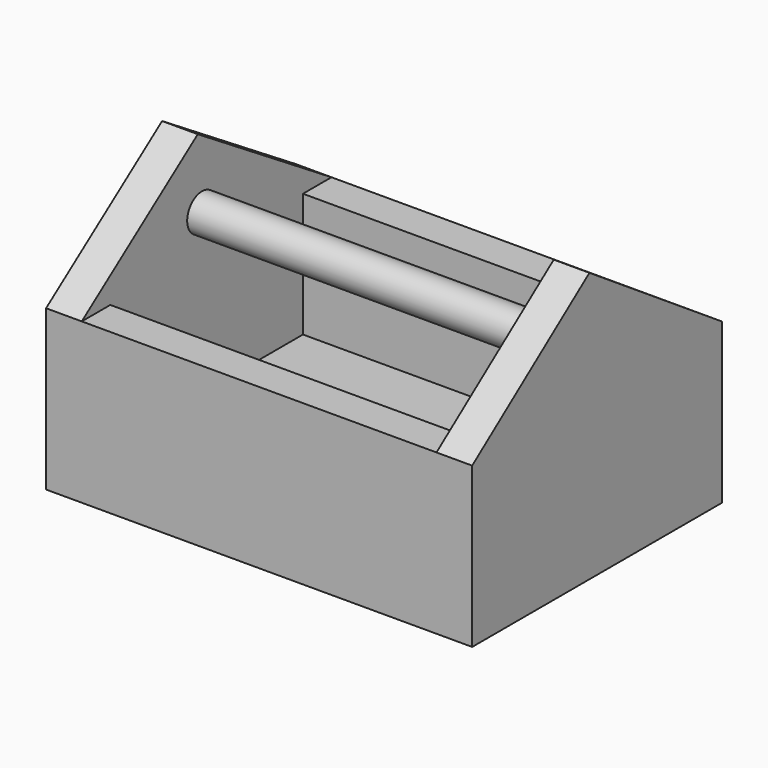
from build123d import *

# Parameters (mm, degrees)
F0_W     = 60.6719590724
F0_H     = 22.7290727198
F1_DEPTH = 44.45
F2_T     = -5.08
F4_DEPTH = 5.08
F6_DEPTH = 5.08
F7_R     = 2.6371182677
F8_DEPTH = 55.245


with BuildPart() as f1:
    # F0 (on Front) → F1 (new body)
    with BuildSketch(Plane.XZ):
        with Locations((-0.4582479596, -0.0916495919)):
            Rectangle(F0_W, F0_H)
    extrude(amount=F1_DEPTH)

    # F2
    f2_openings = [f1.faces().sort_by_distance(p)[0] for p in [
        (-0.458248, -22.225, 11.272887),
    ]]
    offset(amount=F2_T, openings=f2_openings)

    # F3 (on face) → F4 (join)
    with BuildSketch(Plane.YZ.offset(29.8777315766)):
        Polygon((-23.583047092, 26.9575025886), (-44.45, 11.272886768), (0, 11.272886768), align=None)
    extrude(amount=-F4_DEPTH)

    # F5 (on face) → F6 (join)
    with BuildSketch(Plane(origin=(-30.7942274958, 0, 0), x_dir=(0, -1, 0), z_dir=(-1, 0, 0))):
        Polygon((23.8014105707, 26.3420511037), (0, 11.272886768), (44.45, 11.272886768), align=None)
    extrude(amount=-F6_DEPTH)

    # F7 (on face) → F8 (join)
    with BuildSketch(Plane.YZ.offset(-25.7142274958)):
        with Locations((-23.0470523238, 16.2523370236)):
            Circle(F7_R)
    extrude(amount=F8_DEPTH)


solid = f1.part
